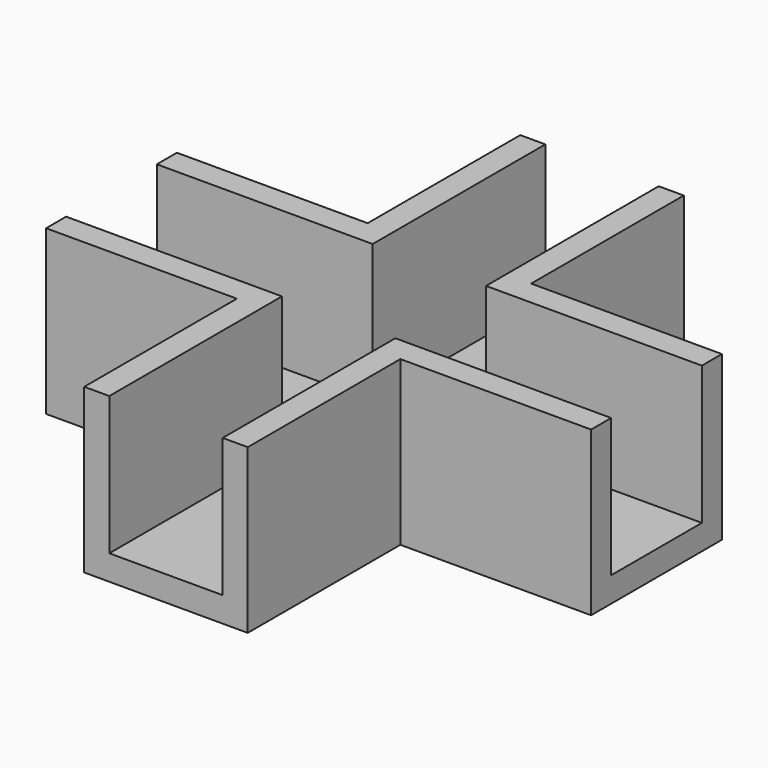
from build123d import *

# Parameters (mm, degrees)
F1_DEPTH = 19.05
F2_T     = -2.921


with BuildPart() as f1:
    # F0 (on Top) → F1 (new body)
    with BuildSketch(Plane.XY):
        Polygon((9.1177485883, 31.9903120756), (-9.9322514117, 31.9903120756), (-9.9322514117, 9.7653120756), (-32.1572514117, 9.7653120756), (-32.1572514117, -9.2846879244), (-9.9322514117, -9.2846879244), (-9.9322514117, -31.5096879244), (9.1177485883, -31.5096879244), (9.1177485883, -9.2846879244), (31.3427485883, -9.2846879244), (31.3427485883, 9.7653120756), (9.1177485883, 9.7653120756), align=None)
    extrude(amount=F1_DEPTH)

    # F2
    f2_openings = [f1.faces().sort_by_distance(p)[0] for p in [
        (-0.407251, 0.240312, 19.05),
        (-0.407251, -31.509688, 9.525),
        (31.342749, 0.240312, 9.525),
        (-0.407251, 31.990312, 9.525),
        (-32.157251, 0.240312, 9.525),
    ]]
    offset(amount=F2_T, openings=f2_openings, kind=Kind.INTERSECTION)


solid = f1.part
